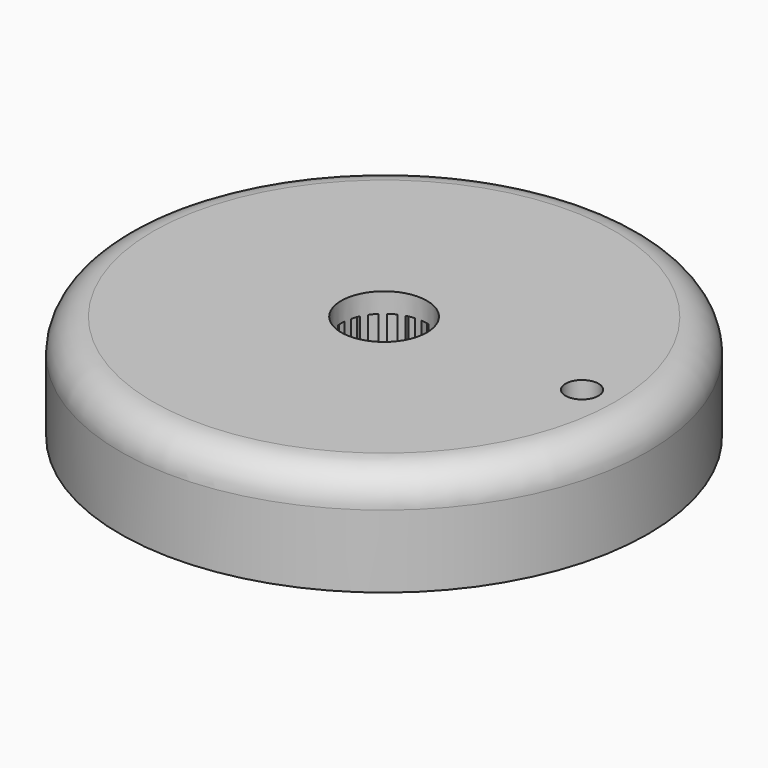
from build123d import *

# Parameters (mm, degrees)
F1_R      = 40
F2_DEPTH  = 16
F3_DEPTH  = 13
F4_R      = 6.5
F5_DEPTH  = 16.001
F6_R      = 2.5
F7_DEPTH  = 16.001
F8_R      = 5
F9_R      = 37.5
F9_R_2    = 10
F9_R_3    = 5
F10_DEPTH = 11
F11_DEPTH = 5


with BuildPart() as f2:
    # F1 (on Top) → F2 (new body)
    with BuildSketch(Plane.XY):
        Circle(F1_R)
    extrude(amount=F2_DEPTH)

    # F0 (on Top) → F3 (cut)
    with BuildSketch(Plane.XY):
        Polygon((0.5, 7.4833147735), (0.5, 6.4807406984), (-0.5, 6.4807406984), (-0.5, 7.4833147735), (-2.0895980578, 7.2030257501), (-1.746697532, 6.2609142888), (-2.6863901539, 5.9188941485), (-3.0292906797, 6.8610056098), (-4.4271597759, 6.0539455166), (-3.782717585, 5.2859292156), (-4.54876203, 4.6431416082), (-5.193204221, 5.4111579093), (-6.2307406865, 4.1746701064), (-5.3624860697, 3.6733830663), (-5.8624860722, 2.807357664), (-6.730740689, 3.308644704), (-7.2828023136, 1.7918678691), (-6.2954595919, 1.6177727054), (-6.4691077722, 0.6329649529), (-7.4564504939, 0.8070601166), (-7.456450498, -0.8070600785), (-6.4691077754, -0.6329649198), (-6.2954596002, -1.6177726732), (-7.2828023228, -1.7918678319), (-6.7307407059, -3.3086446696), (-5.8624860865, -2.807357634), (-5.3624860885, -3.6733830389), (-6.2307407079, -4.1746700745), (-5.1932042487, -5.4111578827), (-4.5487620538, -4.643141585), (-3.782717612, -5.2859291963), (-4.4271598069, -6.053945494), (-3.0292907148, -6.8610055943), (-2.6863901841, -5.9188941348), (-1.746697564, -6.2609142799), (-2.0895980946, -7.2030257394), (-0.5000000128, -7.4833147727), (-0.500000011, -6.4807406976), (0.499999989, -6.4807406993), (0.4999999872, -7.4833147744), (2.0895980701, -7.2030257465), (1.7466975426, -6.2609142858), (2.686390164, -5.9188941439), (3.0292906914, -6.8610056046), (4.4271597862, -6.0539455091), (3.782717594, -5.2859292092), (4.5487620379, -4.6431416005), (5.1932042302, -5.4111579004), (6.2307406937, -4.1746700957), (5.362486076, -3.6733830572), (5.862486077, -2.807357654), (6.7307406946, -3.3086446925), (7.2828023167, -1.7918678567), (6.2954595947, -1.6177726947), (6.4691077733, -0.6329649418), (7.4564504953, -0.8070601039), (7.4564504967, 0.8070600912), (6.4691077744, 0.6329649308), (6.2954595974, 1.6177726839), (7.2828023197, 1.7918678443), (6.7307407003, 3.3086446811), (5.8624860818, 2.807357644), (5.3624860822, 3.673383048), (6.2307407008, 4.1746700851), (5.1932042394, 5.4111578916), (4.5487620458, 4.6431415927), (3.782717603, 5.2859292027), (4.4271597966, 6.0539455016), (3.0292907031, 6.8610055995), (2.686390174, 5.9188941393), (1.7466975533, 6.2609142829), (2.0895980824, 7.203025743), align=None)
    extrude(amount=F3_DEPTH, mode=Mode.SUBTRACT)

    # F4 (on Top) → F5 (cut, through all)
    with BuildSketch(Plane.XY):
        Circle(F4_R)
    extrude(amount=F5_DEPTH, mode=Mode.SUBTRACT)

    # F6 (on Top) → F7 (cut, through all)
    with BuildSketch(Plane.XY):
        with Locations((30, 0)):
            Circle(F6_R)
    extrude(amount=F7_DEPTH, mode=Mode.SUBTRACT)

    # F8
    f8_edges = [f2.edges().sort_by_distance(p)[0] for p in [
        (-40, 0, 16),
    ]]
    fillet(f8_edges, radius=F8_R)

    # F9 (on Top) → F10 (cut)
    with BuildSketch(Plane.XY):
        Circle(F9_R)
        Circle(F9_R_2, mode=Mode.SUBTRACT)
        with Locations((30, 0)):
            Circle(F9_R_3, mode=Mode.SUBTRACT)
    extrude(amount=F10_DEPTH, mode=Mode.SUBTRACT)

    # F11 (cut): a face of the model
    f11_faces = [f2.faces().sort_by_distance(p)[0] for p in [
        (25.1414213562, 0, 0),
    ]]
    extrude(f11_faces, amount=-F11_DEPTH, mode=Mode.SUBTRACT)


solid = f2.part
